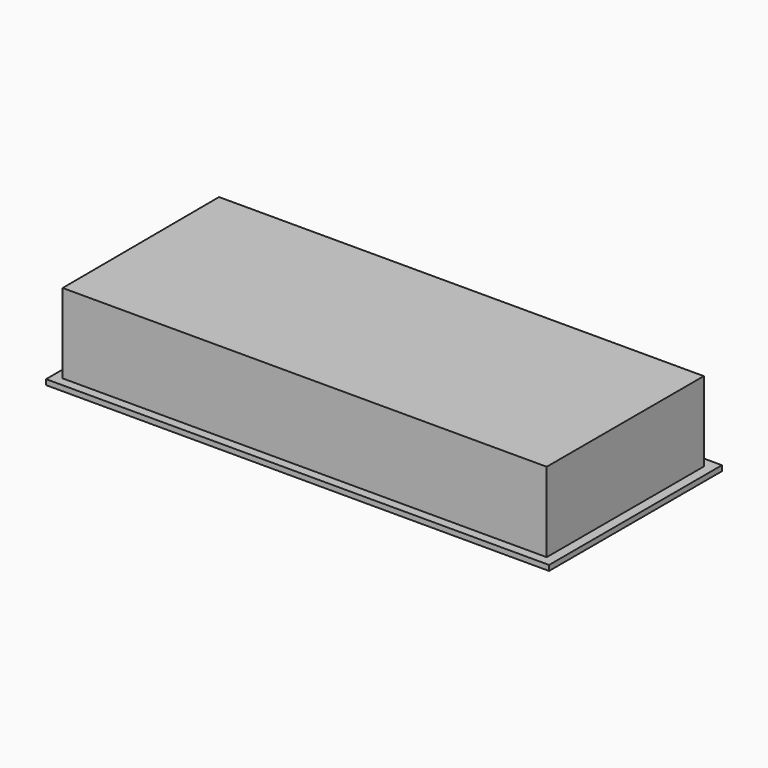
from build123d import *

# Parameters (mm, degrees)
F1_DEPTH = 16
F2_DEPTH = 1


with BuildPart() as f1:
    # F0 (on Top) → F1 (new body)
    with BuildSketch(Plane.XY):
        Polygon((-46.304833, 19.758051), (-46.163612, -17.241679), (45.044052, -17.241949), (45.044052, 19.758051), align=None)
    extrude(amount=F1_DEPTH)

    # F0 (on Top) → F2 (join)
    with BuildSketch(Plane.XY):
        Polygon((46.859896, 21.758051), (-48.0788, 21.758051), (-47.923417, -18.952159), (46.859896, -18.952159), align=None)
        Polygon((45.044052, -17.241949), (-46.163612, -17.241679), (-46.304833, 19.758051), (45.044052, 19.758051), align=None, mode=Mode.SUBTRACT)
    extrude(amount=F2_DEPTH)


solid = f1.part
